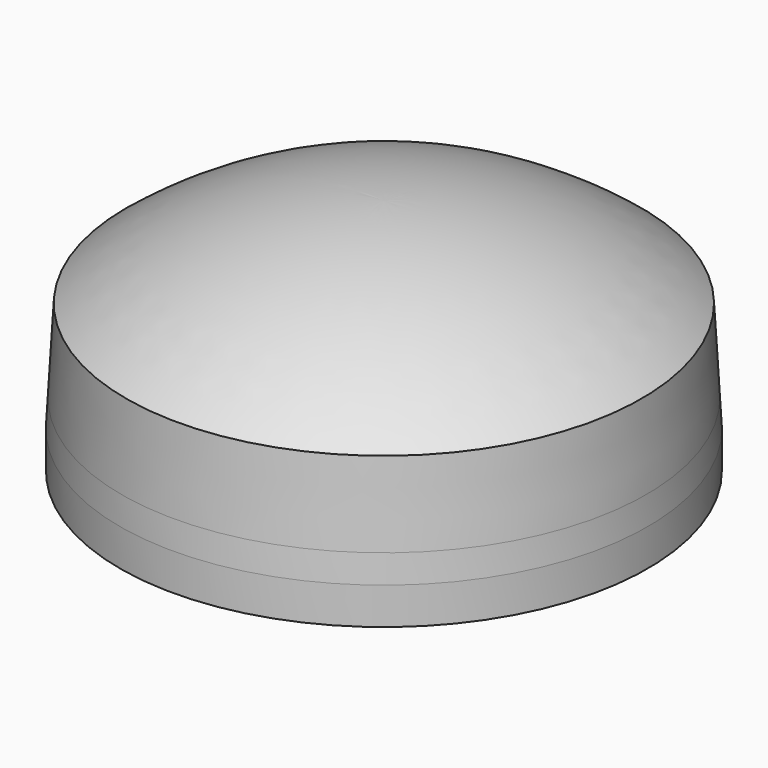
from build123d import *


with BuildPart() as f1:
    # F0 (on Front) → F1 (revolve)
    with BuildSketch(Plane.XZ):
        with BuildLine():
            Line((0, -9), (0, 0))
            Line((0, 0), (0, 9.8))
            ThreePointArc((0, 9.8), (-14.80914, 7.279001), (-27.95, 0))
            Line((-27.95, 0), (-28.45, -9))
            Line((-28.45, -9), (-28.616667, -12))
            Line((-28.616667, -12), (-28.616667, -16))
            Line((-28.616667, -16), (0, -16))
            Line((0, -16), (0, -12))
            Line((0, -12), (0, -9))
        make_face()
    revolve(axis=Axis((0, 0, 4.9), (0, 0, 1)))


solid = f1.part
